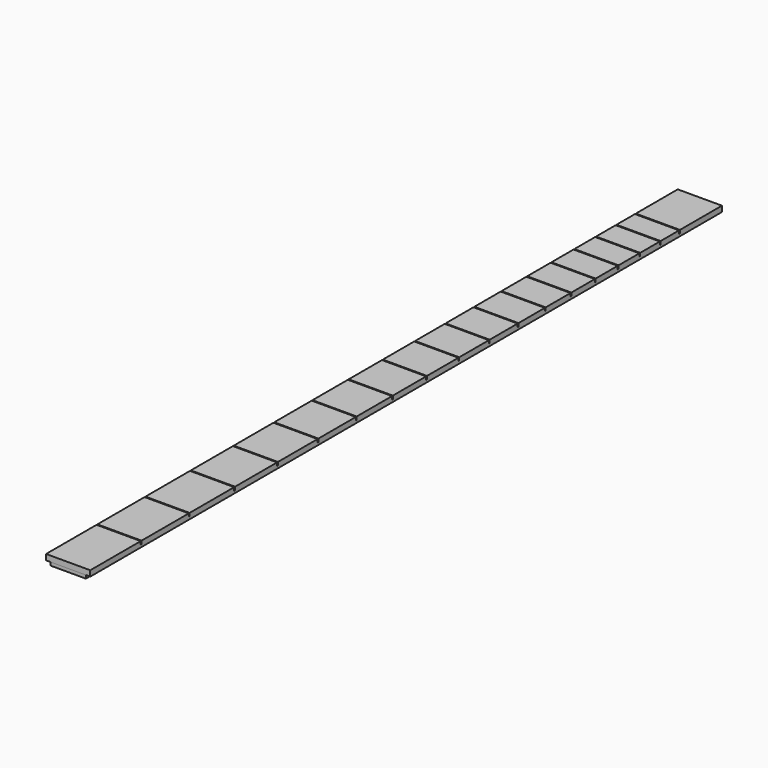
from build123d import *

# Parameters (mm, degrees)
F1_DEPTH = 12.5
F0_W     = 446.920747
F0_H     = 1.815917
F2_DEPTH = 10


with BuildPart() as f1:
    # F0 (on Right) → F1 (new body, symmetric)
    with BuildSketch(Plane.YZ):
        Polygon((35.7, 0), (0, 0), (0, -3.184083), (446.920747, -3.184083), (446.920747, 0), (417.220747, 0), (417.220747, -1.8), (416.620747, -1.8), (416.620747, 0), (403.554862, 0), (403.554862, -1.8), (402.954862, -1.8), (402.954862, 0), (389.087721, 0), (389.087721, -1.8), (388.487721, -1.8), (388.487721, 0), (373.772343, 0), (373.772343, -1.8), (373.172343, -1.8), (373.172343, 0), (357.558995, 0), (357.558995, -1.8), (356.958995, -1.8), (356.958995, 0), (340.395027, 0), (340.395027, -1.8), (339.795027, -1.8), (339.795027, 0), (322.224703, 0), (322.224703, -1.8), (321.624703, -1.8), (321.624703, 0), (302.989018, 0), (302.989018, -1.8), (302.389018, -1.8), (302.389018, 0), (282.625508, 0), (282.625508, -1.8), (282.025508, -1.8), (282.025508, 0), (261.068045, 0), (261.068045, -1.8), (260.468045, -1.8), (260.468045, 0), (238.246628, 0), (238.246628, -1.8), (237.646628, -1.8), (237.646628, 0), (214.087147, 0), (214.087147, -1.8), (213.487147, -1.8), (213.487147, 0), (188.511149, 0), (188.511149, -1.8), (187.911149, -1.8), (187.911149, 0), (161.435581, 0), (161.435581, -1.8), (160.835581, -1.8), (160.835581, 0), (132.772521, 0), (132.772521, -1.8), (132.172521, -1.8), (132.172521, 0), (102.42889, 0), (102.42889, -1.8), (101.82889, -1.8), (101.82889, 0), (70.306154, 0), (70.306154, -1.8), (69.706154, -1.8), (69.706154, 0), (36.3, 0), (36.3, -1.8), (35.7, -1.8), align=None)
    extrude(amount=F1_DEPTH, both=True)


with BuildPart() as f2:
    # F0 (on Right) → F2 (new body, symmetric)
    with BuildSketch(Plane.YZ):
        with Locations((223.460374, -4.092041)):
            Rectangle(F0_W, F0_H)
    extrude(amount=F2_DEPTH, both=True)


solid = Compound([f1.part, f2.part])
